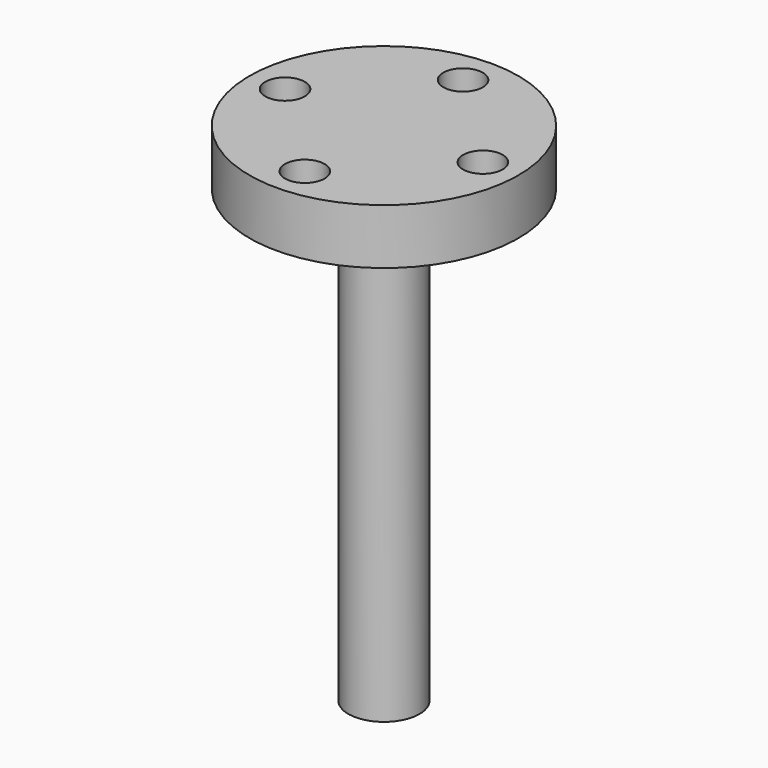
from build123d import *

# Parameters (mm, degrees)
F3_D = 5


with BuildPart() as f1:
    # F0 (on Right) → F1 (revolve)
    with BuildSketch(Plane.YZ):
        Polygon((0, 64), (0, 0), (4.5, 0), (4.5, 54), (7, 54), (7, 57), (17, 57), (17, 64), align=None)
    revolve(axis=Axis((0, 0, 32), (0, 0, -1)))

    # F3 (through all)
    with Locations(Plane.XY.offset(64)):
        with Locations((-12.5, 0), (0, -12.5), (12.5, 0), (0, 12.5)):
            Hole(F3_D / 2)


solid = f1.part
